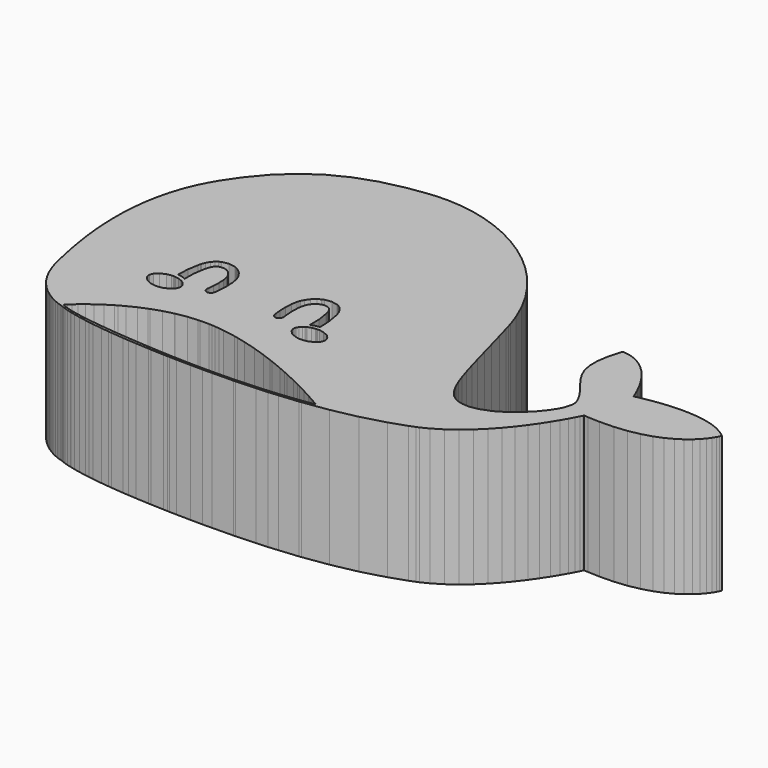
from build123d import *

# Parameters (mm, degrees)
F1_DEPTH = 25


with BuildPart() as f1:
    # F0 (on Top) → F1 (new body)
    with BuildSketch(Plane.XY):
        Polygon((-43.964786, -35.821921), (-43.886654, -35.840398), (-43.83742, -35.86521), (-43.68067, -35.937007), (-43.401515, -36.049973), (-42.986433, -36.197256), (-42.421216, -36.37409), (-41.691561, -36.574694), (-41.570228, -36.603833), (-41.570228, -36.205101), (-41.950185, -36.117538), (-42.601221, -35.940695), (-43.08889, -35.782329), (-43.437322, -35.646138), (-43.668021, -35.534223), (-43.804728, -35.450818), (-43.870308, -35.398558), (-43.886654, -35.380615), (-43.787895, -35.279783), (-43.49648, -34.995774), (-43.01932, -34.555519), (-42.364198, -33.986994), (-41.570228, -33.342858), (-41.539092, -33.317598), (-40.550327, -32.573835), (-39.406368, -31.784146), (-38.114708, -30.9749), (-37.642218, -30.710679), (-36.682546, -30.174022), (-35.11679, -29.408561), (-33.713624, -28.825994), (-33.425907, -28.70654), (-31.616415, -28.09423), (-29.785711, -27.622637), (-29.696487, -27.599653), (-27.673031, -27.25015), (-25.857214, -27.098568), (-25.554027, -27.073258), (-23.897101, -27.06382), (-23.346382, -27.095929), (-22.775911, -27.129206), (-21.929107, -27.224994), (-21.067611, -27.322444), (-18.745443, -27.721472), (-18.00061, -27.895628), (-16.406346, -28.268397), (-14.076297, -28.935585), (-14.072503, -28.936847), (-11.782542, -29.698418), (-10.144492, -30.309393), (-9.550572, -30.530919), (-7.406367, -31.406621), (-6.215996, -31.930476), (-5.376684, -32.299837), (-3.487892, -33.185172), (-2.287986, -33.77792), (-1.765386, -34.036082), (-0.236118, -34.826851), (1.074126, -35.532122), (1.640511, -35.848164), (2.138396, -36.125984), (2.931296, -36.582079), (3.426359, -36.874534), (3.597316, -36.978003), (3.471312, -37.001229), (3.097485, -37.066682), (2.481477, -37.166454), (1.640511, -37.2909), (1.640511, -37.748568), (6.17188, -37.088857), (10.815241, -36.134965), (15.140723, -34.942463), (18.171333, -33.902002), (19.160098, -33.501884), (19.64261, -33.306505), (21.046847, -32.612366), (22.836295, -31.535447), (24.524454, -30.303918), (26.10821, -28.951931), (27.584157, -27.513542), (28.948695, -26.022221), (30.199198, -24.512511), (31.332162, -23.017493), (32.343987, -21.571612), (33.231462, -20.209117), (33.991669, -18.962701), (34.620909, -17.866905), (35.115973, -16.956273), (35.473843, -16.263203), (35.69092, -15.82292), (35.764284, -15.668699), (36.490144, -15.731555), (38.678523, -15.819806), (41.293954, -15.758993), (43.627213, -15.514089), (45.691924, -15.11292), (47.504627, -14.582828), (49.078945, -13.952615), (50.432391, -13.249426), (51.577615, -12.502549), (52.531157, -11.738061), (53.309559, -10.985347), (53.924496, -10.27165), (54.395429, -9.624992), (54.734034, -9.073397), (54.956851, -8.644693), (55.07945, -8.367582), (55.117397, -8.268919), (54.864416, -8.046004), (54.02958, -7.464246), (52.813327, -6.829265), (51.493936, -6.347337), (50.10157, -6.001532), (48.661527, -5.776671), (47.202023, -5.655824), (45.75225, -5.623034), (44.337505, -5.662635), (42.986005, -5.757698), (41.725967, -5.892848), (40.584635, -6.051642), (39.588281, -6.217441), (38.766094, -6.374776), (38.144345, -6.506812), (37.750669, -6.59808), (37.613962, -6.632329), (37.430843, -6.167915), (36.822716, -4.797928), (36.003838, -3.206972), (35.168807, -1.84185), (34.327355, -0.685145), (33.491254, 0.280268), (32.670818, 1.071124), (31.877432, 1.705619), (31.121409, 2.19971), (30.41355, 2.571883), (29.764752, 2.837902), (29.186205, 3.01635), (28.688904, 3.123478), (28.282967, 3.177382), (27.979488, 3.194312), (27.78946, 3.191588), (27.724075, 3.18682), (27.519744, 2.57451), (27.022345, 0.698951), (26.703006, -1.377728), (26.72052, -3.123975), (27.029838, -4.62162), (27.5862, -5.952979), (28.344364, -7.198811), (29.258499, -8.441432), (30.030285, -9.431268), (30.285309, -9.76277), (30.520191, -10.067903), (31.18952, -11.011715), (31.80037, -12.013227), (32.166219, -12.811283), (32.334549, -13.450545), (32.35362, -13.975286), (32.272277, -14.429775), (32.138197, -14.857896), (32.029415, -15.191538), (31.999836, -15.304504), (31.932796, -15.556317), (31.580764, -16.273225), (30.776869, -17.519544), (29.639722, -18.918429), (28.220792, -20.344267), (26.572624, -21.671344), (24.746688, -22.774632), (22.794553, -23.528514), (21.275308, -23.807765), (20.769055, -23.807765), (20.527361, -23.807765), (19.801988, -23.734888), (18.938351, -23.512557), (18.164036, -23.133669), (17.465031, -22.591513), (16.828395, -21.879275), (16.239729, -20.989854), (15.686091, -19.917216), (15.153956, -18.653383), (14.629216, -17.192226), (14.098248, -15.527322), (13.546945, -13.650692), (12.963144, -11.556597), (12.331763, -9.237543), (11.639763, -6.687207), (10.873816, -3.899069), (10.236597, -1.62273), (10.020298, -0.86515), (9.797967, -0.087138), (8.989305, 2.20545), (7.716521, 5.095656), (6.221989, 7.802159), (4.528576, 10.320192), (2.655742, 12.644402), (0.625962, 14.771385), (-1.540525, 16.695497), (-3.821535, 18.412749), (-6.197022, 19.919248), (-8.644804, 21.209449), (-11.14435, 22.278876), (-13.673961, 23.124123), (-16.213108, 23.739061), (-18.739703, 24.12077), (-21.232826, 24.263314), (-23.065087, 24.219529), (-23.671657, 24.162998), (-24.824567, 24.056357), (-25.323121, 23.983492), (-25.587887, 23.590678), (-26.407739, 23.038013), (-27.159967, 22.835336), (-27.41071, 22.835336), (-27.661939, 22.835336), (-28.414167, 23.038013), (-28.947212, 23.397554), (-32.4747, 22.590432), (-36.323605, 21.242629), (-39.839257, 19.475365), (-43.048802, 17.256044), (-45.979096, 14.551292), (-48.65602, 11.327346), (-50.544841, 8.523738), (-51.106506, 7.550346), (-51.397366, 7.04672), (-52.180749, 5.482619), (-53.06444, 3.351063), (-53.771813, 1.168716), (-54.315536, -1.050994), (-54.708814, -3.295613), (-54.96484, -5.551227), (-55.096798, -7.805867), (-55.117397, -10.046205), (-55.040851, -12.259104), (-54.879323, -14.431916), (-54.646512, -16.551406), (-54.355653, -18.604344), (-54.019393, -20.578176), (-53.650917, -22.459476), (-53.263973, -24.235303), (-52.972588, -25.479578), (-52.871231, -25.893493), (-52.777793, -26.275688), (-52.426744, -27.405831), (-51.886718, -28.761904), (-51.268034, -29.968718), (-50.587594, -31.034545), (-49.863331, -31.967849), (-49.112163, -32.777095), (-48.350886, -33.470164), (-47.597101, -34.055085), (-46.867544, -34.540739), (-46.179729, -34.934543), (-45.550488, -35.245475), (-44.997239, -35.481438), (-44.537496, -35.650896), (-44.187409, -35.761225), align=None)
        Polygon((-37.46698, -18.662432), (-37.182961, -18.662432), (-37.116991, -18.662432), (-36.940586, -18.66934), (-36.918499, -18.6708), (-36.771186, -18.679849), (-36.07909, -18.808674), (-35.464055, -19.037719), (-35.354884, -19.096878), (-35.236664, -19.16129), (-34.905649, -19.400941), (-34.562957, -19.765136), (-34.345005, -20.177494), (-34.267943, -20.51425), (-34.267943, -20.626729), (-34.267943, -20.817827), (-34.496988, -21.391022), (-35.122045, -22.016079), (-36.048537, -22.436708), (-36.899428, -22.591513), (-37.182961, -22.591513), (-37.46698, -22.591513), (-38.317968, -22.436708), (-39.24485, -22.016079), (-39.869323, -21.391022), (-40.098367, -20.817827), (-40.098367, -20.626729), (-40.098367, -20.435048), (-39.869323, -19.861852), (-39.24485, -19.237379), (-38.317968, -18.816458), align=None, mode=Mode.SUBTRACT)
        Polygon((-10.707763, -18.662432), (-10.641307, -18.662432), (-10.357775, -18.662432), (-9.506787, -18.816458), (-8.580391, -19.237379), (-7.955432, -19.861852), (-7.726193, -20.435048), (-7.726193, -20.626729), (-7.726193, -20.817827), (-7.955432, -21.391022), (-8.580391, -22.016079), (-9.506787, -22.436708), (-10.357775, -22.591513), (-10.641307, -22.591513), (-10.925229, -22.591513), (-11.776217, -22.436708), (-12.703294, -22.016079), (-13.327767, -21.391022), (-13.556811, -20.817827), (-13.556811, -20.626729), (-13.556811, -20.51425), (-13.480333, -20.177494), (-13.2617, -19.765136), (-12.919106, -19.400941), (-12.58809, -19.16129), (-12.469384, -19.096878), (-12.360602, -19.037719), (-11.745665, -18.808674), (-11.053666, -18.679849), (-10.906353, -18.6708), (-10.884655, -18.66934), align=None, mode=Mode.SUBTRACT)
        Polygon((-36.520443, -13.783118), (-36.420711, -13.384089), (-36.37099, -13.18297), (-36.153038, -12.596444), (-35.776097, -11.932954), (-35.30098, -11.40656), (-34.887746, -11.106291), (-34.736736, -11.033413), (-34.512264, -10.924632), (-33.332012, -10.690333), (-32.13843, -10.870727), (-31.906661, -10.969487), (-31.707196, -11.053944), (-31.145482, -11.400235), (-30.488219, -11.989972), (-29.961532, -12.709993), (-29.661653, -13.317536), (-29.591889, -13.530234), (-29.487388, -13.849574), (-29.298918, -14.850598), (-29.219715, -16.196747), (-29.279458, -17.531706), (-29.370823, -18.497703), (-29.404586, -18.819767), (-29.410424, -18.87299), (-29.417721, -18.94217), (-29.492643, -19.14543), (-29.661069, -19.362313), (-29.894493, -19.505441), (-30.100769, -19.557205), (-30.169463, -19.557205), (-30.189993, -19.557205), (-30.244287, -19.55341), (-30.251195, -19.553021), (-30.325727, -19.545042), (-30.541053, -19.461656), (-30.765427, -19.272602), (-30.90262, -19.013394), (-30.938524, -18.784836), (-30.93074, -18.711471), (-30.924902, -18.658151), (-30.893182, -18.358953), (-30.807558, -17.459315), (-30.74801, -16.266803), (-30.807071, -15.107082), (-30.958179, -14.27244), (-31.045165, -14.006519), (-31.089534, -13.871369), (-31.280048, -13.485963), (-31.615344, -13.025635), (-32.030232, -12.648208), (-32.379638, -12.429671), (-32.504279, -12.376837), (-32.579298, -12.344728), (-32.813597, -12.27331), (-33.18577, -12.220087), (-33.609123, -12.253363), (-33.961739, -12.35728), (-34.070521, -12.410114), (-34.16607, -12.45604), (-34.414185, -12.672046), (-34.664344, -13.029819), (-34.834328, -13.413085), (-34.915671, -13.667038), (-34.936785, -13.753149), (-35.039729, -14.165799), (-35.34963, -16.134378), (-35.388161, -17.961384), (-35.354884, -18.303881), (-35.464055, -18.24482), (-36.07909, -18.015775), (-36.771186, -17.886852), (-36.918499, -17.877998), (-36.934845, -17.530636), (-36.84348, -15.70937), align=None, mode=Mode.SUBTRACT)
        Polygon((-11.453764, -13.18297), (-11.40346, -13.384089), (-11.304311, -13.783118), (-10.981761, -15.70937), (-10.890007, -17.530636), (-10.906353, -17.877998), (-11.053666, -17.886852), (-11.745665, -18.015775), (-12.360602, -18.24482), (-12.469384, -18.303881), (-12.436594, -17.961384), (-12.475125, -16.134378), (-12.785026, -14.165799), (-12.887483, -13.753149), (-12.909084, -13.667038), (-12.990427, -13.413085), (-13.159924, -13.029819), (-13.410083, -12.672046), (-13.658685, -12.45604), (-13.753747, -12.410114), (-13.863015, -12.35728), (-14.215631, -12.253363), (-14.638985, -12.220087), (-15.011742, -12.27331), (-15.245554, -12.345215), (-15.319989, -12.376837), (-15.445117, -12.429671), (-15.794619, -12.648208), (-16.209994, -13.025635), (-16.545096, -13.485963), (-16.735707, -13.871369), (-16.77959, -14.006519), (-16.866673, -14.27244), (-17.01817, -15.107082), (-17.077328, -16.266803), (-17.017586, -17.459315), (-16.93167, -18.358369), (-16.899366, -18.658151), (-16.893528, -18.711471), (-16.886231, -18.78542), (-16.922037, -19.013394), (-17.059328, -19.272602), (-17.284189, -19.461656), (-17.499611, -19.545042), (-17.573559, -19.553021), (-17.580273, -19.55341), (-17.634761, -19.557205), (-17.654805, -19.557205), (-17.723986, -19.557205), (-17.930846, -19.505441), (-18.164269, -19.362313), (-18.332598, -19.14543), (-18.407617, -18.94217), (-18.414428, -18.87299), (-18.420169, -18.819767), (-18.454516, -18.497703), (-18.545881, -17.531706), (-18.605428, -16.196747), (-18.525837, -14.850598), (-18.337853, -13.849574), (-18.232866, -13.530234), (-18.163199, -13.317536), (-17.863319, -12.709993), (-17.337023, -11.989972), (-16.67976, -11.400235), (-16.118143, -11.053944), (-15.918093, -10.969487), (-15.686908, -10.870727), (-14.492742, -10.690333), (-13.312296, -10.924632), (-13.087435, -11.033413), (-12.937009, -11.106291), (-12.524164, -11.40656), (-12.048658, -11.932954), (-11.671717, -12.596444), align=None, mode=Mode.SUBTRACT)
        Polygon((-22.311302, 19.246223), (-22.311302, 19.205551), (-22.311302, 19.165464), (-22.511351, 19.04413), (-23.056135, 18.91151), (-23.864797, 18.822286), (-24.607101, 18.789593), (-24.854146, 18.789593), (-25.101775, 18.789593), (-25.843884, 18.822286), (-26.65206, 18.91151), (-27.196941, 19.04413), (-27.396406, 19.165464), (-27.396406, 19.205551), (-27.396406, 19.246223), (-27.196941, 19.367653), (-26.65206, 19.500176), (-25.843884, 19.589401), (-25.101775, 19.62151), (-24.854146, 19.62151), (-24.607101, 19.62151), (-23.864797, 19.589401), (-23.056135, 19.500176), (-22.511351, 19.367653), align=None, mode=Mode.SUBTRACT)
        Polygon((-22.093836, 22.22935), (-22.093836, 22.118525), (-22.093836, 22.00809), (-22.182963, 21.677172), (-22.426408, 21.31609), (-22.786906, 21.073229), (-23.118407, 20.983518), (-23.228746, 20.983518), (-23.339668, 20.983518), (-23.67117, 21.073229), (-24.031667, 21.31609), (-24.275113, 21.677172), (-24.363753, 22.00809), (-24.363753, 22.118525), (-24.363753, 22.22935), (-24.275113, 22.560852), (-24.031667, 22.92135), (-23.67117, 23.164795), (-23.339668, 23.253922), (-23.228746, 23.253922), (-23.118407, 23.253922), (-22.786906, 23.164795), (-22.426408, 22.92135), (-22.182963, 22.560852), align=None, mode=Mode.SUBTRACT)
        Polygon((-22.093836, 22.00809), (-22.093836, 22.118525), (-22.093836, 22.22935), (-22.182963, 22.560852), (-22.426408, 22.92135), (-22.786906, 23.164795), (-23.118407, 23.253922), (-23.228746, 23.253922), (-23.339668, 23.253922), (-23.67117, 23.164795), (-24.031667, 22.92135), (-24.275113, 22.560852), (-24.363753, 22.22935), (-24.363753, 22.118525), (-24.363753, 22.00809), (-24.275113, 21.677172), (-24.031667, 21.31609), (-23.67117, 21.073229), (-23.339668, 20.983518), (-23.228746, 20.983518), (-23.118407, 20.983518), (-22.786906, 21.073229), (-22.426408, 21.31609), (-22.182963, 21.677172), align=None)
        Polygon((-22.311302, 19.165464), (-22.311302, 19.205551), (-22.311302, 19.246223), (-22.511351, 19.367653), (-23.056135, 19.500176), (-23.864797, 19.589401), (-24.607101, 19.62151), (-24.854146, 19.62151), (-25.101775, 19.62151), (-25.843884, 19.589401), (-26.65206, 19.500176), (-27.196941, 19.367653), (-27.396406, 19.246223), (-27.396406, 19.205551), (-27.396406, 19.165464), (-27.196941, 19.04413), (-26.65206, 18.91151), (-25.843884, 18.822286), (-25.101775, 18.789593), (-24.854146, 18.789593), (-24.607101, 18.789593), (-23.864797, 18.822286), (-23.056135, 18.91151), (-22.511351, 19.04413), align=None)
        Polygon((-28.266465, 23.553315), (-28.947212, 23.397554), (-28.414167, 23.038013), (-27.661939, 22.835336), (-27.41071, 22.835336), (-27.159967, 22.835336), (-26.407739, 23.038013), (-25.587887, 23.590678), (-25.323121, 23.983492), align=None)
        Polygon((-25.857214, -37.985972), (-25.857214, -38.455544), (-25.401071, -38.479842), (-23.039205, -38.573805), (-22.251657, -38.59703), (-21.929107, -38.606584), (-21.929107, -38.192306), (-24.192115, -38.086029), (-25.004086, -38.037466), (-25.78998, -37.99049), align=None)
        Polygon((-21.929107, -38.192306), (-21.929107, -38.606584), (-20.647955, -38.644532), (-18.00061, -38.674723), (-18.00061, -38.305818), (-18.669938, -38.29719), (-21.752701, -38.20059), align=None)
        Polygon((-18.00061, -38.305818), (-18.00061, -38.674723), (-15.832566, -38.699448), (-14.072503, -38.673143), (-14.072503, -38.325849), (-15.761732, -38.33468), align=None)
        Polygon((-14.072503, -38.325849), (-14.072503, -38.673143), (-10.144492, -38.614435), (-10.144492, -38.249105), (-10.490881, -38.262872), (-13.033142, -38.320415), align=None)
        Polygon((-10.144492, -38.249105), (-10.144492, -38.614435), (-9.79246, -38.609173), (-6.215996, -38.42477), (-6.215996, -38.060983), (-8.140108, -38.169444), align=None)
        Polygon((-6.215996, -38.060983), (-6.215996, -38.42477), (-4.120344, -38.316718), (-2.287986, -38.143182), (-2.287986, -37.75197), (-2.292267, -37.752416), (-4.035303, -37.906559), (-5.98627, -38.048033), align=None)
        Polygon((-2.287986, -37.75197), (-2.287986, -38.143182), (1.197114, -37.813121), (1.640511, -37.748568), (1.640511, -37.2909), (1.628932, -37.292614), (0.545202, -37.437786), (-0.763972, -37.593515), align=None)
        Polygon((-29.785711, -37.705522), (-29.785711, -38.219696), (-28.245254, -38.328336), (-25.857214, -38.455544), (-25.857214, -37.985972), (-28.147078, -37.832124), align=None)
        Polygon((-33.713624, -37.358554), (-33.713624, -37.875673), (-33.072804, -37.945625), (-30.797633, -38.14833), (-29.785711, -38.219696), (-29.785711, -37.705522), (-30.921107, -37.617801), (-33.350499, -37.397143), align=None)
        Polygon((-37.642218, -36.895433), (-37.642218, -37.371809), (-36.847761, -37.494803), (-35.084584, -37.726018), (-33.713624, -37.875673), (-33.713624, -37.358554), (-35.456757, -37.173314), (-37.26372, -36.950029), align=None)
        Polygon((-41.570228, -36.205101), (-41.570228, -36.603833), (-40.78375, -36.792714), (-39.682993, -37.022343), (-38.375375, -37.258306), (-37.642218, -37.371809), (-37.642218, -36.895433), (-38.793474, -36.729372), (-40.069469, -36.515039), (-41.114084, -36.310222), align=None)
    extrude(amount=F1_DEPTH)


solid = f1.part
